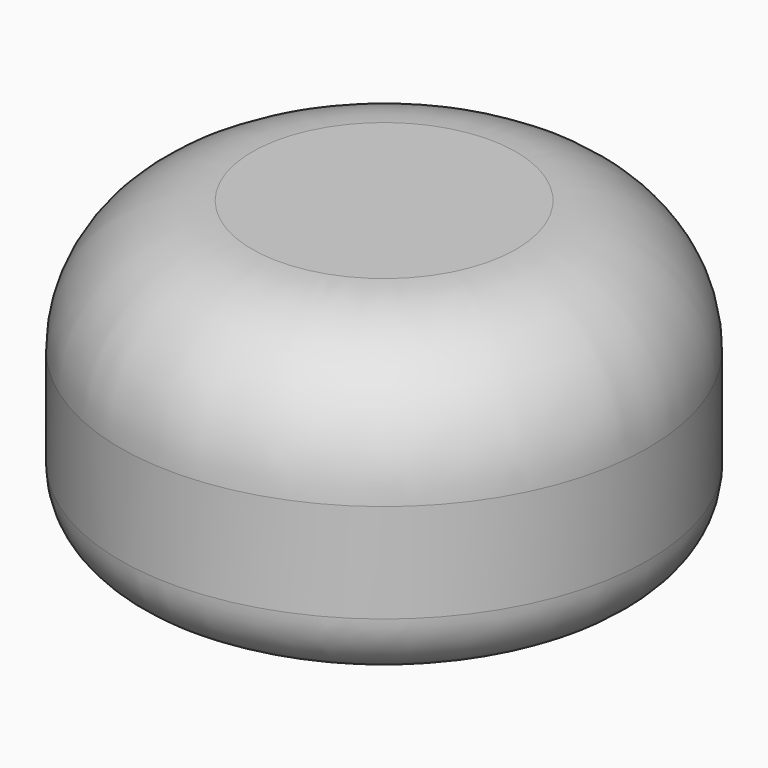
from build123d import *


with BuildPart() as f1:
    # F0 (on Front) → F1 (revolve)
    with BuildSketch(Plane.XZ):
        with BuildLine():
            ThreePointArc((3, 0), (3.707107, 0.292893), (4, 1))
            Line((4, 1), (4, 2.5))
            ThreePointArc((4, 2.5), (3.414214, 3.914214), (2, 4.5))
            Line((2, 4.5), (0, 4.5))
            Line((0, 4.5), (0, 3))
            Line((0, 3), (1.75, 3))
            Line((1.75, 3), (1.75, 0.685272))
            Line((1.75, 0.685272), (1.951956, 0))
            Line((1.951956, 0), (3, 0))
        make_face()
    revolve(axis=Axis((0, 0, 144.955611), (0, 0, 1)))


solid = f1.part
